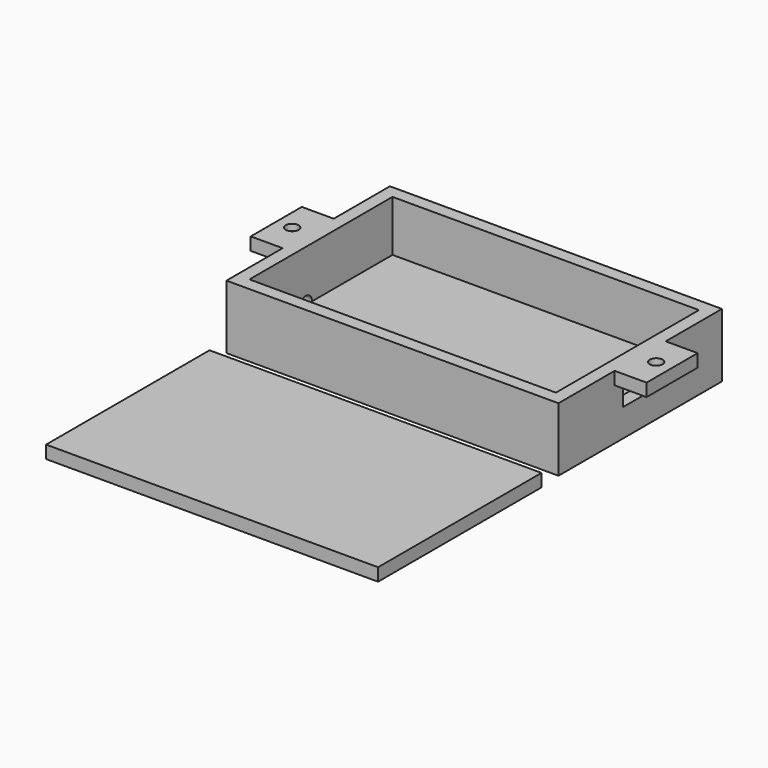
from build123d import *

# Parameters (mm, degrees)
F0_W      = 121.92
F0_H      = 71.12
F1_DEPTH  = 5.08
F2_W      = 132.08
F2_H      = 81.28
F2_W_2    = 121.92
F2_H_2    = 71.12
F3_DEPTH  = 25.4
F4_R      = 3.81
F5_DEPTH  = 5.08
F6_R      = 3.81
F7_DEPTH  = 5.08
F8_R      = 3.175
F9_DEPTH  = 5.08
F11_R     = 3.175
F12_DEPTH = 5.08
F13_DEPTH = 5.08
F14_W     = 10.817503
F14_H     = 6.094383
F15_DEPTH = 5.08
F16_W     = 25.4
F16_H     = 5.08
F17_DEPTH = 12.7
F18_W     = 25.4
F18_H     = 5.08
F19_DEPTH = 12.7
F20_R     = 5.08
F21_DEPTH = 5.08
F22_R     = 5.08
F23_DEPTH = 5.08
F24_W     = 132.08
F24_H     = 81.28
F25_DEPTH = 5.08
F26_R     = 5.08
F26_R_2   = 2.54
F27_DEPTH = 2.54


with BuildPart() as f1:
    # F0 (on Top) → F1 (new body)
    with BuildSketch(Plane.XY):
        with Locations((-60.96, 35.56)):
            Rectangle(F0_W, F0_H)
    extrude(amount=F1_DEPTH)

    # F4 (on face) → F5 (cut)
    with BuildSketch(Plane(origin=(0, 0, 0), x_dir=(1, 0, 0), z_dir=(0, 0, -1))):
        with Locations((-45.72, -25.4)):
            Circle(F4_R)
    extrude(amount=-F5_DEPTH, mode=Mode.SUBTRACT)

    # F6 (on face) → F7 (cut)
    with BuildSketch(Plane(origin=(0, 0, 0), x_dir=(1, 0, 0), z_dir=(0, 0, -1))):
        with Locations((-8.89, -25.4)):
            Circle(F6_R)
    extrude(amount=-F7_DEPTH, mode=Mode.SUBTRACT)

    # F8 (on face) → F9 (cut)
    with BuildSketch(Plane(origin=(0, 0, 0), x_dir=(1, 0, 0), z_dir=(0, 0, -1))):
        with Locations((-79.375, -25.4)):
            Circle(F8_R)
    extrude(amount=-F9_DEPTH, mode=Mode.SUBTRACT)


with BuildPart() as f3:
    # F2 (on face) → F3 (new body)
    with BuildSketch(Plane(origin=(0, 0, 0), x_dir=(1, 0, 0), z_dir=(0, 0, -1))):
        with Locations((-60.96, -35.56)):
            Rectangle(F2_W, F2_H)
        with Locations((-60.96, -35.56)):
            Rectangle(F2_W_2, F2_H_2, mode=Mode.SUBTRACT)
    extrude(amount=-F3_DEPTH)

    # F11 (on face) → F12 (cut)
    with BuildSketch(Plane(origin=(-127, 0, 0), x_dir=(0, -1, 0), z_dir=(-1, 0, 0))):
        with Locations((-27.94, 5.08)):
            Circle(F11_R)
    extrude(amount=-F12_DEPTH, mode=Mode.SUBTRACT)

    # F11 (on face) → F13 (cut)
    with BuildSketch(Plane(origin=(-127, 0, 0), x_dir=(0, -1, 0), z_dir=(-1, 0, 0))):
        with Locations((-12.7, 5.08)):
            Circle(F11_R)
    extrude(amount=-F13_DEPTH, mode=Mode.SUBTRACT)

    # F14 (on face) → F15 (cut)
    with BuildSketch(Plane.YZ.offset(5.08)):
        with Locations((32.528084, 14.049074)):
            Rectangle(F14_W, F14_H)
    extrude(amount=-F15_DEPTH, mode=Mode.SUBTRACT)

    # F16 (on face) → F17 (join)
    with BuildSketch(Plane.YZ.offset(5.08)):
        with Locations((35.56, 22.86)):
            Rectangle(F16_W, F16_H)
    extrude(amount=F17_DEPTH)

    # F18 (on face) → F19 (join)
    with BuildSketch(Plane(origin=(-127, 0, 0), x_dir=(0, -1, 0), z_dir=(-1, 0, 0))):
        with Locations((-35.56, 22.86)):
            Rectangle(F18_W, F18_H)
    extrude(amount=F19_DEPTH)

    # F20 (on face) → F21 (cut)
    with BuildSketch(Plane.XY.offset(25.4)):
        with Locations((11.43, 35.56)):
            Circle(F20_R)
    extrude(amount=-F21_DEPTH, mode=Mode.SUBTRACT)

    # F22 (on face) → F23 (cut)
    with BuildSketch(Plane.XY.offset(25.4)):
        with Locations((-133.35, 35.56)):
            Circle(F22_R)
    extrude(amount=-F23_DEPTH, mode=Mode.SUBTRACT)

    # F26 (on face) → F27 (join)
    with BuildSketch(Plane.XY.offset(25.4)):
        with BuildLine():
            ThreePointArc((6.35, 35.56), (11.43, 30.48), (16.51, 35.56))
            ThreePointArc((16.51, 35.56), (11.43, 40.64), (6.35, 35.56))
        make_face()
        with BuildLine():
            ThreePointArc((13.97, 35.56), (11.43, 33.02), (8.89, 35.56))
            ThreePointArc((8.89, 35.56), (11.43, 38.1), (13.97, 35.56))
        make_face(mode=Mode.SUBTRACT)
        with Locations((-133.35, 35.56)):
            Circle(F26_R)
        with Locations((-133.35, 35.56)):
            Circle(F26_R_2, mode=Mode.SUBTRACT)
    extrude(amount=-F27_DEPTH)


with BuildPart() as f25:
    # F24 (on Top) → F25 (new body)
    with BuildSketch(Plane.XY):
        with Locations((-60.183757, -55.114367)):
            Rectangle(F24_W, F24_H)
    extrude(amount=F25_DEPTH)


solid = Compound([f1.part, f3.part, f25.part])
